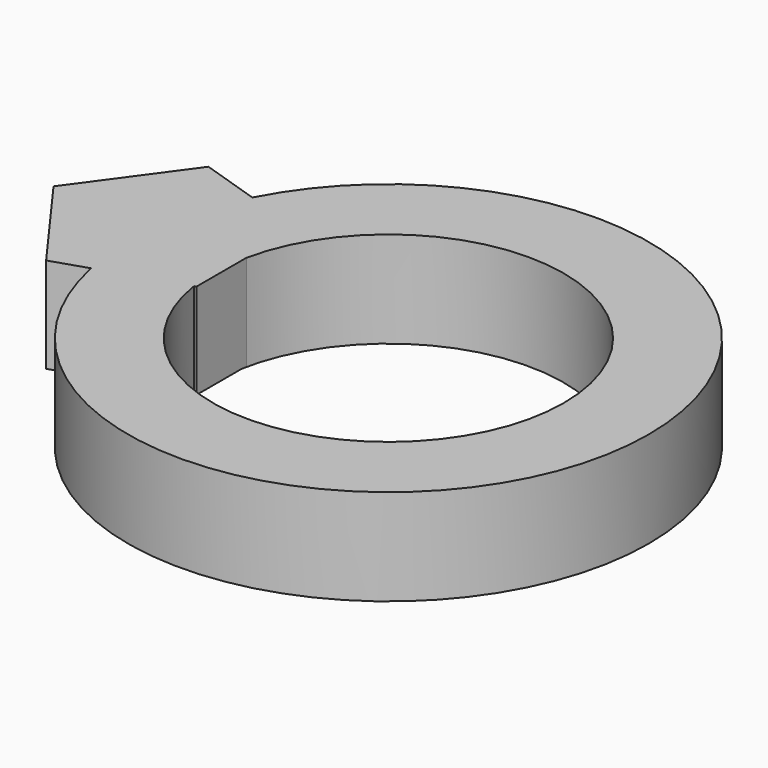
from build123d import *

# Parameters (mm, degrees)
F3_R     = 68.807709
F3_R_2   = 46.350216
F1_DEPTH = 25.4
F4_DEPTH = 25.194961


with BuildPart() as f1:
    # F3 (on face) → F1 (new body)
    with BuildSketch(Plane.XY):
        Circle(F3_R)
        Circle(F3_R_2, mode=Mode.SUBTRACT)
    extrude(amount=F1_DEPTH)

    # F2 (on face) → F4 (join)
    with BuildSketch(Plane.XY.offset(25.4)):
        Polygon((-45.300776, -6.761135), (-45.300776, 26.375637), (-76.815719, 36.615463), (-96.293024, 9.807251), (-76.815719, -17.00096), align=None)
    extrude(amount=-F4_DEPTH)


solid = f1.part
